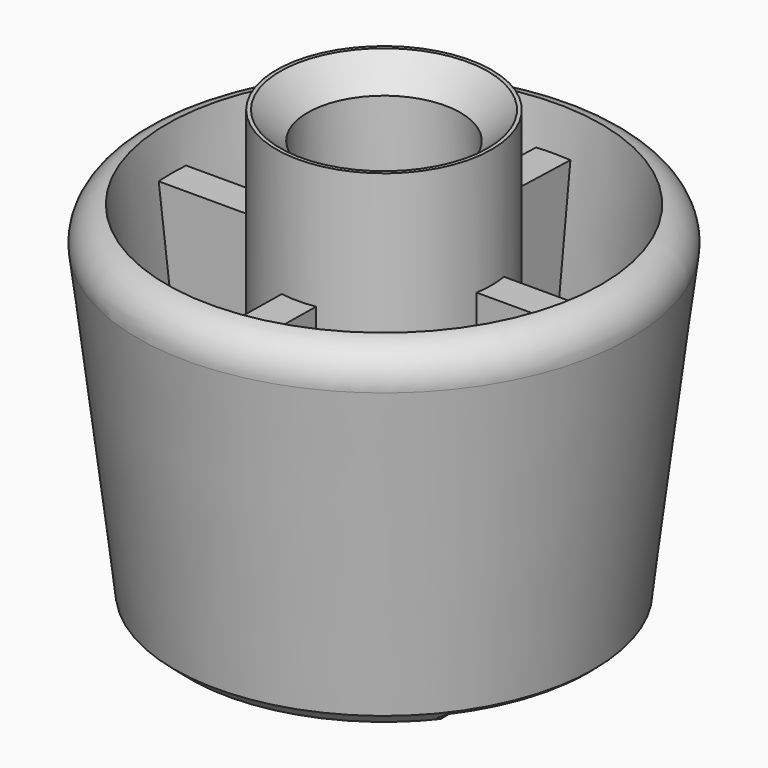
from build123d import *

# Parameters (mm, degrees)
F3_DEPTH  = 3.175
F5_DEPTH  = 3.175
F7_DEPTH  = 3.175
F8_SIZE   = 2.54
F9_SIZE   = 5.08
F10_W     = 12.513392
F10_H     = 47.661307
F11_DEPTH = 25.4


with BuildPart() as f1:
    # F0 (on Front) → F1 (revolve)
    with BuildSketch(Plane.XZ):
        with BuildLine():
            Line((0, 19.05), (0, 0))
            Line((0, 0), (0, -0.913425))
            Line((0, -0.913425), (38.565893, -1.763764))
            Line((38.565893, -1.763764), (45.640576, 56.988166))
            ThreePointArc((45.640576, 56.988166), (44.387599, 61.595058), (40.279133, 64.026912))
            Line((40.279133, 64.026912), (34.23503, 13.833469))
            ThreePointArc((34.23503, 13.833469), (31.941065, 9.669371), (27.399097, 8.264908))
            Line((27.399097, 8.264908), (25.775305, 8.401293))
            ThreePointArc((25.775305, 8.401293), (21.632523, 10.430895), (19.956781, 14.729012))
            Line((19.956781, 14.729012), (19.956781, 28.661031))
            Line((19.956781, 28.661031), (19.956781, 79.461031))
            Line((19.956781, 79.461031), (14.187589, 79.461031))
            Line((14.187589, 79.461031), (13.97, 19.05))
            Line((13.97, 19.05), (0, 19.05))
        make_face()
    revolve(axis=Axis((0, 0, 9.525), (0, 0, 1)))

    # F2 (on Front) → F3 (join, symmetric)
    with BuildSketch(Plane.XZ):
        Polygon((-17.64158, 56.308575), (-40.932791, 56.308575), (-36.213137, 2.431753), (-36.199561, 2.276776), (-17.64158, 1.878101), align=None)
    extrude(amount=F3_DEPTH, both=True)

    # F4 (on Front) → F5 (join, symmetric)
    with BuildSketch(Plane.XZ):
        Polygon((42.761714, 57.315655), (16.789319, 57.315655), (16.789319, 0.20661), (35.935931, 0.20661), align=None)
    extrude(amount=F5_DEPTH, both=True)

    # F6 (on Right) → F7 (join, symmetric)
    with BuildSketch(Plane.YZ):
        Polygon((-16.432097, 1.235654), (-16.432097, 56.315523), (-41.003351, 56.652121), (-34.406153, 1.235654), align=None)
        Polygon((42.709365, 56.236618), (17.860977, 56.908193), (17.860977, 0.033839), (35.461162, -0.207263), align=None)
    extrude(amount=F7_DEPTH, both=True)

    # F8
    f8_edges = [f1.edges().sort_by_distance(p)[0] for p in [
        (-38.565893, 0, -1.763764),
    ]]
    chamfer(f8_edges, length=F8_SIZE)

    # F9
    f9_edges = [f1.edges().sort_by_distance(p)[0] for p in [
        (-14.187589, 0, 79.461031),
        (-13.97, 0, 19.05),
        (14.078795, 0, 49.255515),
    ]]
    chamfer(f9_edges, length=F9_SIZE)

    # F10 (on Top) → F11 (cut)
    with BuildSketch(Plane.XY):
        with Locations((34.57921, 0.681657)):
            Rectangle(F10_W, F10_H)
    extrude(amount=-F11_DEPTH, mode=Mode.SUBTRACT)


solid = f1.part
